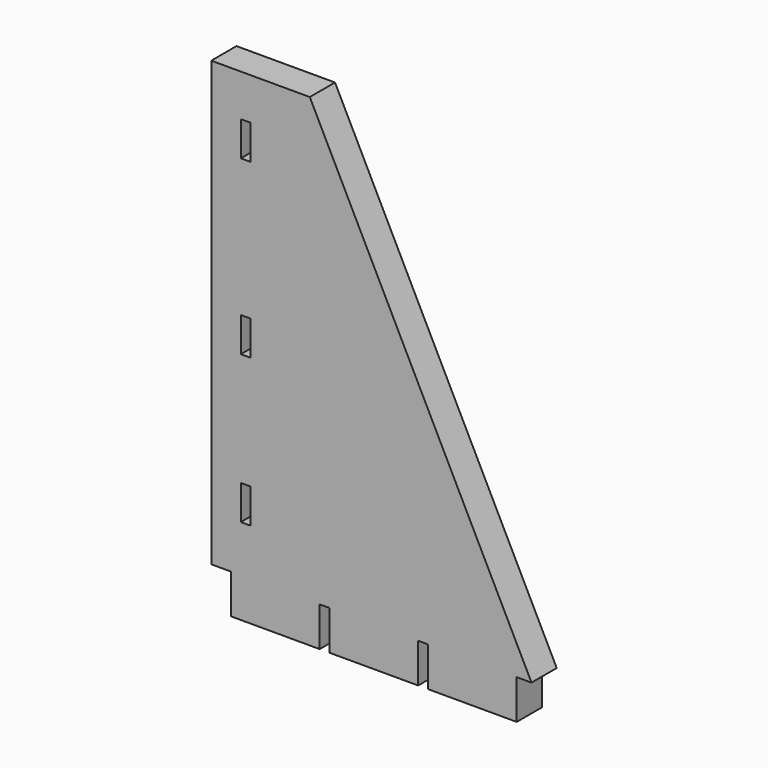
from build123d import *

# Parameters (mm, degrees)
F0_W     = 2
F0_H     = 7
F1_DEPTH = 6.4


with BuildPart() as f1:
    # F0 (on Front) → F1 (new body)
    with BuildSketch(Plane.XZ):
        Polygon((0, 90), (0, 0), (4, 0), (4, -8), (22, -8), (22, 0), (24, 0), (24, -8), (42, -8), (42, 0), (44, 0), (44, -8), (62, -8), (62, 0), (65, 0), (20, 90), align=None)
        with Locations((7, 13)):
            Rectangle(F0_W, F0_H, mode=Mode.SUBTRACT)
        with Locations((7, 43)):
            Rectangle(F0_W, F0_H, mode=Mode.SUBTRACT)
        with Locations((7, 78)):
            Rectangle(F0_W, F0_H, mode=Mode.SUBTRACT)
    extrude(amount=F1_DEPTH)


solid = f1.part
